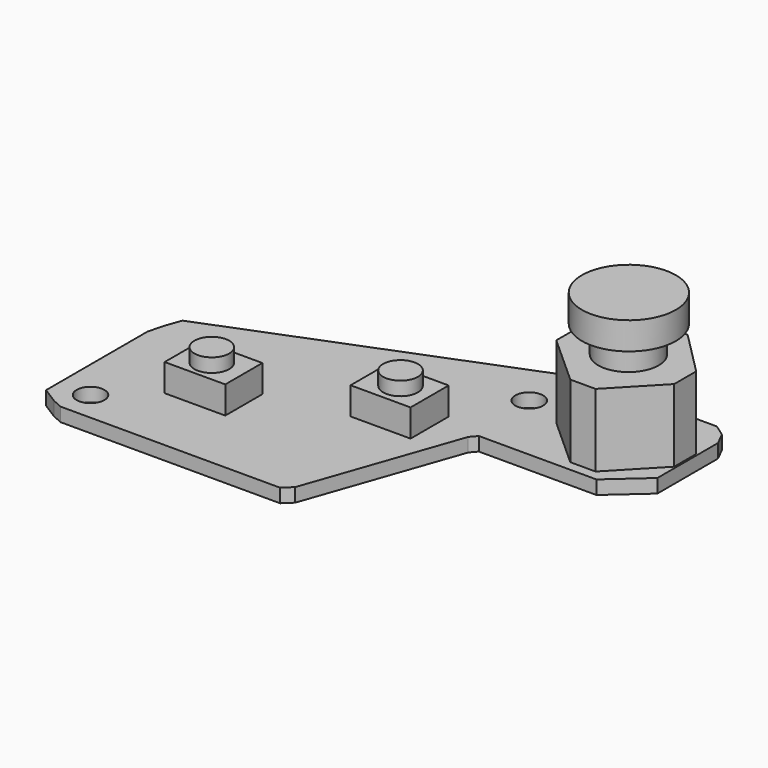
from build123d import *

# Parameters (mm, degrees)
SKETCH031_R     = 1.011832
PAD027_DEPTH    = 1
SKETCH032_W     = 4.41637
SKETCH032_H     = 3.379875
SKETCH032_W_2   = 4.371405
SKETCH032_H_2   = 3.470269
PAD028_DEPTH    = 3
PAD029_DEPTH    = 2.3
SKETCH034_R     = 2.204503
PAD030_DEPTH    = 4
SKETCH035_R     = 3.424311
PAD031_DEPTH    = 2
SKETCH036_W     = 18.521845
SKETCH036_H     = 12.987429
SKETCH036_R     = 1.2680878078
POCKET007_DEPTH = 1


with BuildPart() as part:
    # Sketch031 → Pad027 (new body)
    with BuildSketch(Plane.XY):
        Polygon((-15.824113, 0.702012), (-16.104103, -0.397312), (-16.104103, -9.622469), (-14.917328, -10.371682), (-14.188362, -10.695666), (1.802157, -10.695666), (2.429877, -10.099644), (6.254575, 0.878554), (6.659555, 1.344282), (15.224892, 1.344282), (17.820574, 3.648021), (17.820574, 9.166112), (17.347485, 10.117816), (16.497025, 10.725287), (6.898985, 10.725287), (-15.4012, 1.910333), align=None)
        with Locations((-13.754142, -8.512947)):
            Circle(SKETCH031_R, mode=Mode.SUBTRACT)
        with Locations((6.163737, 6.548235)):
            Circle(SKETCH031_R, mode=Mode.SUBTRACT)
    extrude(amount=PAD027_DEPTH)

    # Sketch032 (on Face20 of Pad027) → Pad028 (join)
    with BuildSketch(Plane.XY.offset(1)):
        with Locations((-8.389468, -4.0162585)):
            Rectangle(SKETCH032_W, SKETCH032_H)
        with Locations((1.6375455, 0.4002435)):
            Rectangle(SKETCH032_W_2, SKETCH032_H_2)
        Polygon((9.090246, 7.237029), (12.289592, 10.476871), (14.496734, 10.557867), (17.696077, 7.338274), (17.696077, 5.333621), (14.57773, 2.073529), (12.735069, 2.073529), (9.090246, 5.35387), align=None)
    extrude(amount=PAD028_DEPTH)

    # Pad028 Face39 → Pad029 (add)
    with BuildSketch(Plane(origin=(13.4460203648, 6.3372919202, 4), x_dir=(0, 1, 0), z_dir=(0, 0, 1))):
        Polygon((4.1395790798, 1.1564283648), (0.8997370798, 4.3557743648), (-0.9834219202, 4.3557743648), (-4.2637629202, 0.7109513648), (-4.2637629202, -1.1317096352), (-1.0036709202, -4.2500566352), (1.0009820798, -4.2500566352), (4.2205750798, -1.0507136352), align=None)
    extrude(amount=PAD029_DEPTH)

    # Sketch034 (on Face47 of Pad029) → Pad030 (join)
    with BuildSketch(Plane.XY.offset(6.3)):
        with Locations((13.367406, 6.580182)):
            Circle(SKETCH034_R)
    extrude(amount=PAD030_DEPTH)

    # Sketch035 (on Face49 of Pad030) → Pad031 (join)
    with BuildSketch(Plane.XY.offset(10.3)):
        with Locations((13.437232, 6.533877)):
            Circle(SKETCH035_R)
    extrude(amount=-PAD031_DEPTH)

    # Sketch036 (on Face38 of Pad031) → Pocket007 (cut)
    with BuildSketch(Plane.XY.offset(4)):
        with Locations((-4.0809855, -1.9936815)):
            Rectangle(SKETCH036_W, SKETCH036_H)
        with Locations((1.724279, 0.373466)):
            Circle(SKETCH036_R, mode=Mode.SUBTRACT)
        with Locations((-8.450182, -4.094334)):
            Circle(SKETCH036_R, mode=Mode.SUBTRACT)
    extrude(amount=-POCKET007_DEPTH, mode=Mode.SUBTRACT)


solid = part.part
